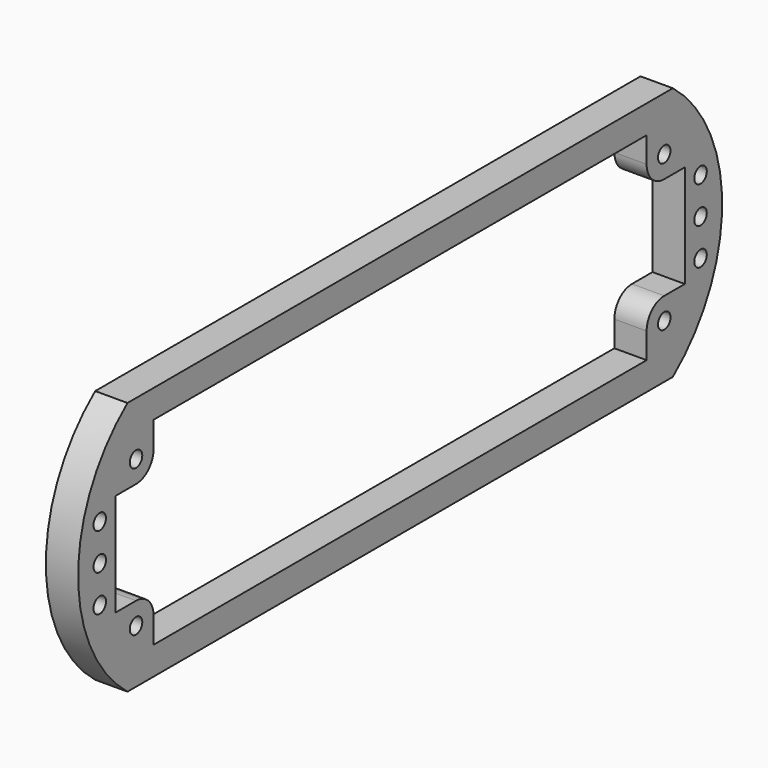
from build123d import *

# Parameters (mm, degrees)
F0_R     = 1.35255
F1_DEPTH = 5.588


with BuildPart() as f1:
    # F0 (on Right) → F1 (new body)
    with BuildSketch(Plane.YZ):
        with BuildLine():
            ThreePointArc((59, -22), (69.679492, 0), (59, 22))
            Line((59, 22), (-59, 22))
            ThreePointArc((-59, 22), (-69.679492, 0), (-59, -22))
            Line((-59, -22), (59, -22))
        make_face()
        with Locations((-57.15, -12.7)):
            Circle(F0_R, mode=Mode.SUBTRACT)
        with Locations((-65, -6.35)):
            Circle(F0_R, mode=Mode.SUBTRACT)
        with Locations((57.15, -12.7)):
            Circle(F0_R, mode=Mode.SUBTRACT)
        with Locations((65, -6.35)):
            Circle(F0_R, mode=Mode.SUBTRACT)
        with Locations((-65, 0)):
            Circle(F0_R, mode=Mode.SUBTRACT)
        with Locations((-65, 6.35)):
            Circle(F0_R, mode=Mode.SUBTRACT)
        with BuildLine():
            Line((-53.34, 17.145), (53.34, 17.145))
            Line((53.34, 17.145), (53.34, 12.7))
            ThreePointArc((53.34, 12.7), (54.455923, 10.005923), (57.15, 8.89))
            Line((57.15, 8.89), (61.595, 8.89))
            Line((61.595, 8.89), (61.595, -8.89))
            Line((61.595, -8.89), (57.15, -8.89))
            ThreePointArc((57.15, -8.89), (54.455923, -10.005923), (53.34, -12.7))
            Line((53.34, -12.7), (53.34, -17.145))
            Line((53.34, -17.145), (-53.34, -17.145))
            Line((-53.34, -17.145), (-53.34, -12.7))
            ThreePointArc((-53.34, -12.7), (-54.455923, -10.005923), (-57.15, -8.89))
            Line((-57.15, -8.89), (-61.595, -8.89))
            Line((-61.595, -8.89), (-61.595, 8.89))
            Line((-61.595, 8.89), (-57.15, 8.89))
            ThreePointArc((-57.15, 8.89), (-54.455923, 10.005923), (-53.34, 12.7))
            Line((-53.34, 12.7), (-53.34, 17.145))
        make_face(mode=Mode.SUBTRACT)
        with Locations((-57.15, 12.7)):
            Circle(F0_R, mode=Mode.SUBTRACT)
        with Locations((65, 0)):
            Circle(F0_R, mode=Mode.SUBTRACT)
        with Locations((65, 6.35)):
            Circle(F0_R, mode=Mode.SUBTRACT)
        with Locations((57.15, 12.7)):
            Circle(F0_R, mode=Mode.SUBTRACT)
    extrude(amount=F1_DEPTH)


solid = f1.part
